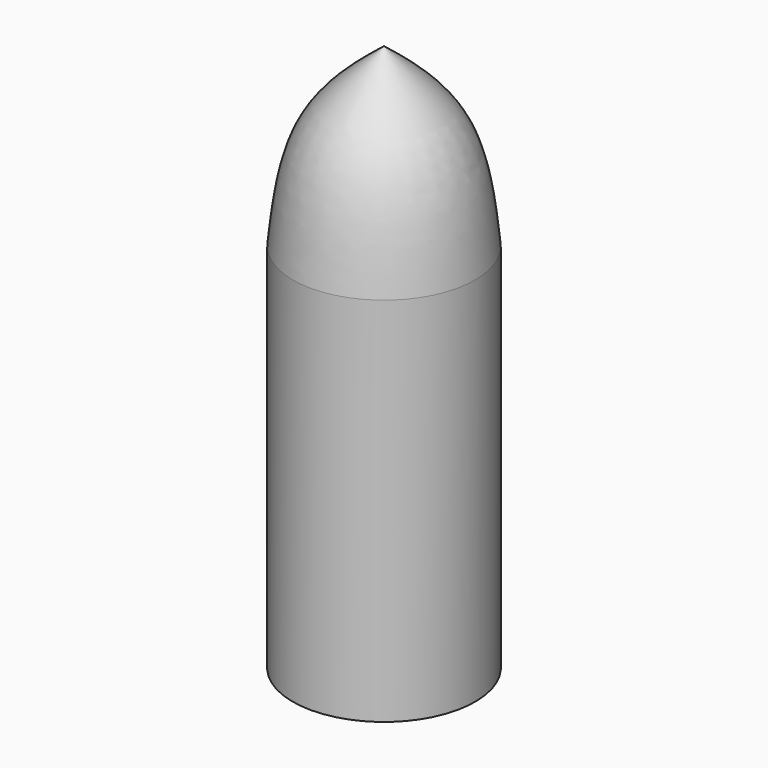
from build123d import *


with BuildPart() as f1:
    # F0 (on Right) → F1 (revolve)
    with BuildSketch(Plane.YZ):
        with BuildLine():
            Line((0, 81.3837827136), (0, 0))
            Line((0, 0), (20, 0))
            Line((20, 0), (20, 120))
            add(Edge.make_bspline(
                [(0, 81.3837827136), (0.8728472306, 89.7697860982), (2.5678005375, 106.0542900395), (14.3064048484, 115.4451400819), (20, 120)],
                knots=[0, 0, 0, 0, 0.5149683045, 1, 1, 1, 1], degree=3))
        make_face()
    revolve(axis=Axis((0, 20, 60), (0, 0, -1)))


solid = f1.part
